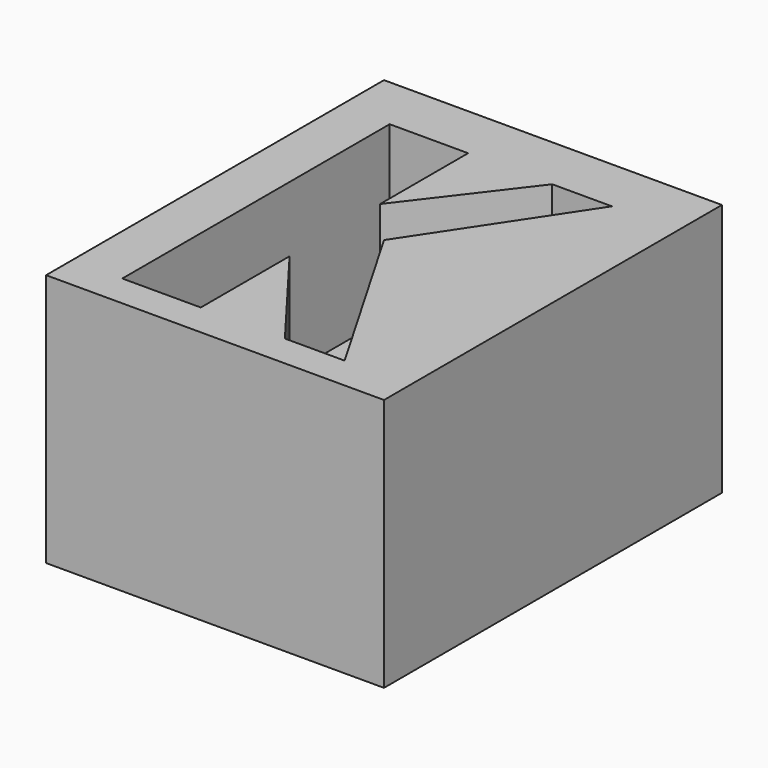
from build123d import *

# Parameters (mm, degrees)
F0_W     = 101.6
F0_H     = 127
F1_DEPTH = 76.2
F3_DEPTH = 50.8


with BuildPart() as f1:
    # F0 (on Top) → F1 (new body)
    with BuildSketch(Plane.XY):
        Rectangle(F0_W, F0_H)
    extrude(amount=F1_DEPTH)

    # F2 (on face) → F3 (cut)
    with BuildSketch(Plane.XY.offset(76.2)):
        Polygon((-12.167419, 46.826132), (-35.76484, 46.826132), (-35.76484, -53.647262), (-12.167419, -53.647262), (-12.167419, -20.279033), (13.113873, -53.647262), (31.079156, -53.647262), (0, 0), (31.079156, 46.826132), (13.113873, 46.826132), (-12.167419, 13.745292), align=None)
    extrude(amount=-F3_DEPTH, mode=Mode.SUBTRACT)


solid = f1.part
